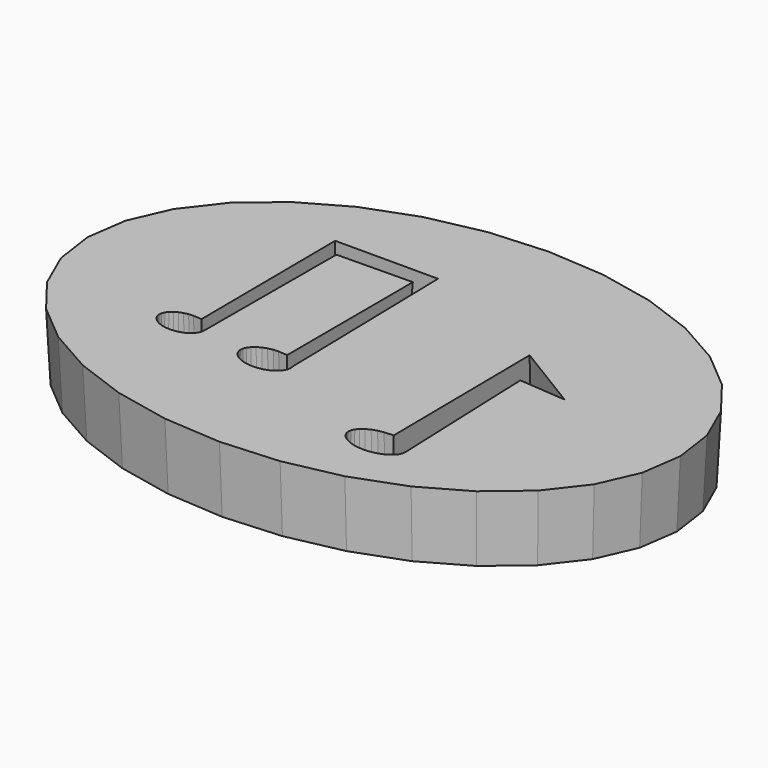
from build123d import *

# Parameters (mm, degrees)
F1_DEPTH = 25.4
F1_TAPER = -3


with BuildPart() as f1:
    # F0 (on Top) → F1 (new body)
    with BuildSketch(Plane.XY):
        Polygon((107.9119762, -14.8257514), (110.0260944, 0), (107.9119762, 14.825726), (101.6508762, 29.0817046), (91.4833578, 42.2201086), (77.8002, 53.7360114), (61.1272336, 63.1868688), (42.1051736, 70.2094862), (21.465032, 74.5339886), (0, 75.9941838), (-21.465032, 74.5339886), (-42.1051736, 70.2094862), (-61.1272336, 63.1868688), (-77.8002, 53.7360114), (-91.4833578, 42.2201086), (-101.6508508, 29.0817046), (-107.9119762, 14.825726), (-110.0260944, 0), (-107.9119762, -14.8257514), (-101.6508508, -29.08173), (-91.4833578, -42.2201086), (-77.8002, -53.7360114), (-61.1272336, -63.1868688), (-42.1051736, -70.2094862), (-21.465032, -74.5339886), (0, -75.9942092), (21.465032, -74.5339886), (42.1051736, -70.2094862), (61.1272336, -63.1868688), (77.8002, -53.7360114), (91.4833578, -42.2201086), (101.6508762, -29.08173), align=None)
        Polygon((45.988097, 6.8176902), (48.1047044, -48.5684068), (47.8742248, -50.0481092), (47.191676, -51.470941), (46.0832962, -52.7822414), (44.5916304, -53.9315914), (42.7740318, -54.8748458), (40.7003504, -55.5757588), (38.4502914, -56.0073556), (36.1103164, -56.1531008), (33.770316, -56.0073556), (31.520257, -55.5757588), (29.4465756, -54.8748458), (27.628977, -53.9315914), (26.1373366, -52.7822414), (25.0289314, -51.470941), (24.3463826, -50.0481092), (24.115903, -48.5684068), (24.3463826, -47.0887044), (25.0289314, -45.6658726), (26.1373366, -44.3545722), (27.628977, -43.2052222), (29.4465756, -42.2619678), (31.520257, -41.5610548), (33.770316, -41.1294326), (36.1103164, -40.9837128), (35.404806, 24.8093992), (67.8603164, 5.0537872), align=None, mode=Mode.SUBTRACT)
        Polygon((-46.0897986, 35.6024942), (-46.263306, -25.1087128), (-46.4498944, -26.4507726), (-47.002573, -27.7412704), (-47.9000312, -28.9305746), (-49.1078266, -29.9730414), (-50.5795026, -30.8285642), (-52.2585442, -31.46425), (-54.08041, -31.8557148), (-55.9750976, -31.9878964), (-57.8697852, -31.8557148), (-59.691651, -31.46425), (-61.3706926, -30.8285642), (-62.8423686, -29.9730414), (-64.050164, -28.9305746), (-64.9476222, -27.7412704), (-65.5002754, -26.4507726), (-65.6868892, -25.1087128), (-65.5002754, -23.766653), (-64.9476222, -22.4761552), (-64.050164, -21.2868256), (-62.8423686, -20.2443842), (-61.3706926, -19.3888614), (-59.691651, -18.7531502), (-57.8697852, -18.3616854), (-55.9750976, -18.2295038), (-54.08041, -18.3616854), (-54.5535866, 44.9176902), (-13.2785866, 44.9176902), (-11.7214396, -26.3092184), (-11.5146836, -27.7545038), (-11.7214396, -29.1997892), (-12.333732, -30.5895502), (-13.3280404, -31.8703452), (-14.6661378, -32.9929744), (-16.2966146, -33.9142832), (-18.1568344, -34.5988894), (-20.1752708, -35.0204532), (-22.274403, -35.1627948), (-24.3735098, -35.0204532), (-26.3919462, -34.5988894), (-28.252166, -33.9142832), (-29.8826428, -32.9929744), (-31.2207656, -31.8703452), (-32.215074, -30.5895502), (-32.827341, -29.1997892), (-33.034097, -27.7545038), (-32.827341, -26.3092184), (-32.215074, -24.9194828), (-31.2207656, -23.6386624), (-29.8826428, -22.5160586), (-28.252166, -21.5947244), (-26.3919462, -20.9101182), (-24.3735098, -20.4885544), (-22.274403, -20.3462128), (-20.1752708, -20.4885544), (-20.3340900956, 35.9504711681), align=None, mode=Mode.SUBTRACT)
    extrude(amount=F1_DEPTH, taper=F1_TAPER)


solid = f1.part
